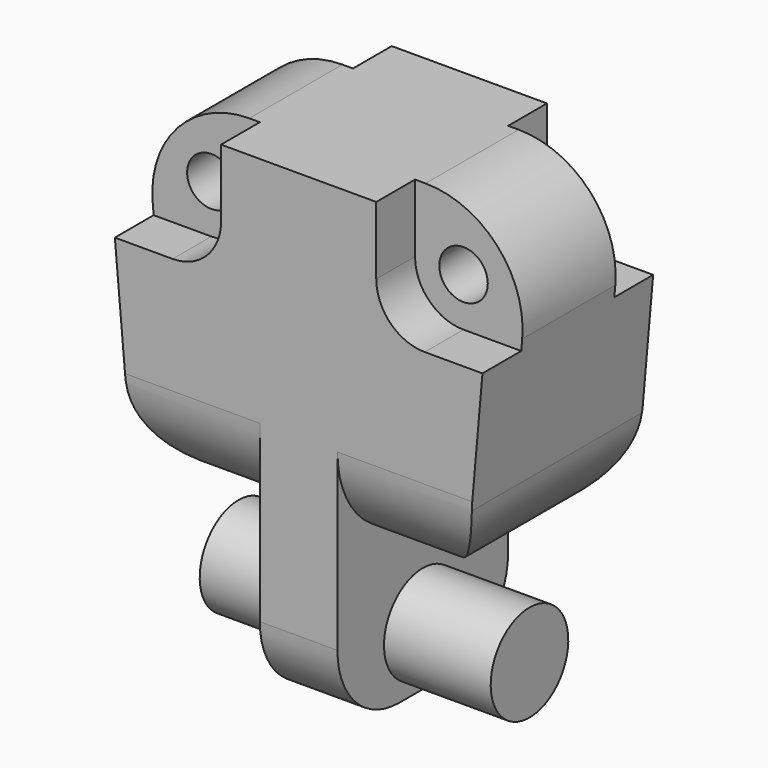
from build123d import *

# Parameters (mm, degrees)
F1_DEPTH      = 110
F2_W          = 300
F2_H          = 50
F4_W          = 120
F4_H          = 50
F5_DEPTH      = 120
F6_R          = 50
F7_R          = 100
F8_R          = 25
F9_DEPTH      = 110.001
F9_DEPTH_BACK = 110.001
F10_R         = 80


with BuildPart() as f1:
    # F0 (on Front) → F1 (new body, symmetric)
    with BuildSketch(Plane.XZ):
        Polygon((-40, -60), (0, -60), (40, -60), (40, 100), (170.2538544012, 100), (200, 440), (0, 440), (-200, 440), (-170.2538544012, 100), (-40, 100), align=None)
    extrude(amount=F1_DEPTH, both=True)

    # F2 (on Front) → F3 (revolve)
    with BuildSketch(Plane.XZ):
        with Locations((0, 25)):
            Rectangle(F2_W, F2_H)
    revolve(axis=Axis((165.973843012, 0, 0), (1, 0, 0)))

    # F4 (on face) → F5 (cut)
    with BuildSketch(Plane.XY.offset(440)):
        with Locations((140, -85)):
            Rectangle(F4_W, F4_H)
        with Locations((140, 85)):
            Rectangle(F4_W, F4_H)
        with Locations((-140, 85)):
            Rectangle(F4_W, F4_H)
        with Locations((-140, -85)):
            Rectangle(F4_W, F4_H)
    extrude(amount=-F5_DEPTH, mode=Mode.SUBTRACT)

    # F6
    f6_edges = [f1.edges().sort_by_distance(p)[0] for p in [
        (80, -85, 320),
        (-80, -85, 320),
        (-80, 85, 320),
        (80, 85, 320),
    ]]
    fillet(f6_edges, radius=F6_R)

    # F7
    f7_edges = [f1.edges().sort_by_distance(p)[0] for p in [
        (200, 0, 440),
        (-200, 0, 440),
        (105.126927, -110, 100),
        (170.253854, 0, 100),
        (105.126927, 110, 100),
        (-105.126927, 110, 100),
        (-105.126927, -110, 100),
        (-170.253854, 0, 100),
    ]]
    fillet(f7_edges, radius=F7_R)

    # F8 (on Front) → F9 (cut, two sides)
    with BuildSketch(Plane.XZ) as f9_sk:
        with Locations((130, 370)):
            Circle(F8_R)
        with Locations((-130, 370)):
            Circle(F8_R)
    extrude(amount=-F9_DEPTH, mode=Mode.SUBTRACT)
    extrude(f9_sk.sketch, amount=F9_DEPTH_BACK, mode=Mode.SUBTRACT)

    # F10
    f10_edges = [f1.edges().sort_by_distance(p)[0] for p in [
        (0, -110, -60),
        (0, 110, -60),
    ]]
    fillet(f10_edges, radius=F10_R)


solid = f1.part
